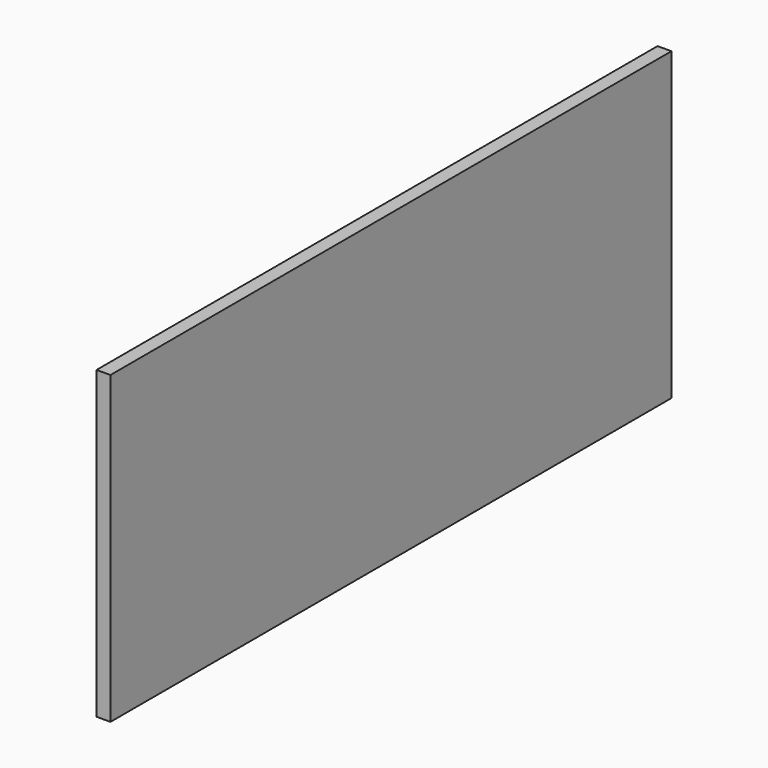
from build123d import *

# Parameters (mm, degrees)
F0_W     = 54.2596559972
F0_H     = 98.770968616
F1_DEPTH = 76.2
F2_DEPTH = 25.4
F3_DEPTH = 25.4
F4_DEPTH = 76.2


with BuildPart() as f1:
    # F0 (on Top) → F1 (new body)
    with BuildSketch(Plane.XY):
        with Locations((-42.7902424708, 19.9565179646)):
            Rectangle(F0_W, F0_H)
    extrude(amount=F1_DEPTH)

    # F2 (cut): a face of the model
    f2_faces = [f1.faces().sort_by_distance(p)[0] for p in [
        (-15.6604144722, 19.9565179646, 38.1),
    ]]
    extrude(f2_faces, amount=-F2_DEPTH, mode=Mode.SUBTRACT)

    # F3 (cut): a face of the model
    f3_faces = [f1.faces().sort_by_distance(p)[0] for p in [
        (-41.0604144722, 19.9565179646, 38.1),
    ]]
    extrude(f3_faces, amount=-F3_DEPTH, mode=Mode.SUBTRACT)

    # F4 (add): a face of the model
    f4_faces = [f1.faces().sort_by_distance(p)[0] for p in [
        (-68.1902424708, -29.4289663434, 38.1),
    ]]
    extrude(f4_faces, amount=F4_DEPTH)


solid = f1.part
